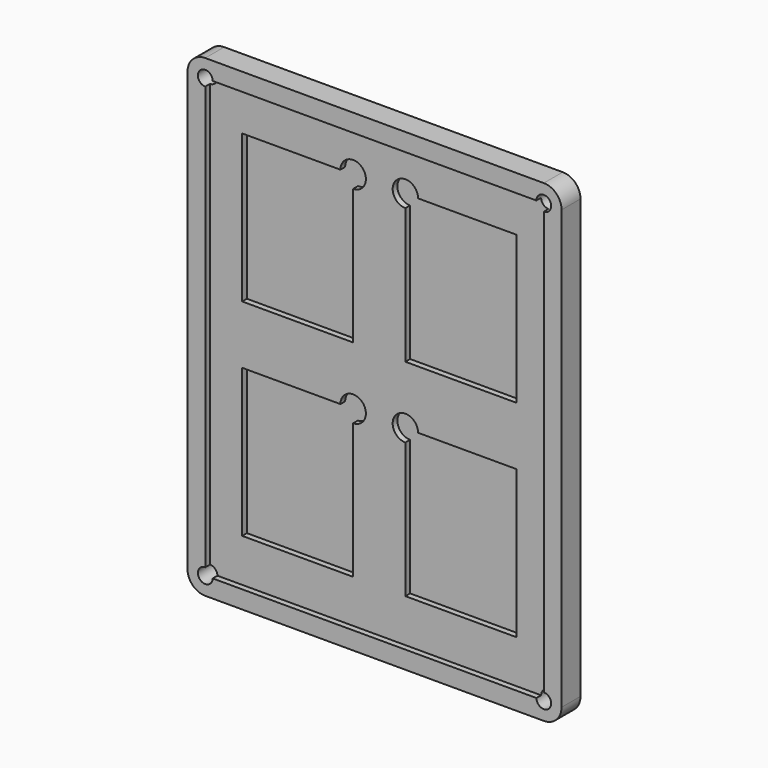
from build123d import *

# Parameters (mm, degrees)
F0_W      = 80.264
F0_H      = 101.6
F1_DEPTH  = 2.54
F2_R      = 3.81
F3_W      = 72.644
F3_H      = 93.98
F4_DEPTH  = 1.27
F5_W      = 23.8125
F5_H      = 31.75
F6_DEPTH  = 1.27
F7_W      = 23.8125
F7_H      = 31.75
F8_DEPTH  = 1.27
F9_R      = 2.7305
F10_DEPTH = 1.27
F12_D     = 3.175
F12_DEPTH = 9.525
F12_TIP   = 0.9538662327


with BuildPart() as f1:
    # F0 (on Front) → F1 (new body, symmetric)
    with BuildSketch(Plane.XZ):
        Rectangle(F0_W, F0_H)
    extrude(amount=F1_DEPTH, both=True)

    # F2
    f2_edges = [f1.edges().sort_by_distance(p)[0] for p in [
        (-40.132, 0, 50.8),
        (40.132, 0, 50.8),
        (40.132, 0, -50.8),
        (-40.132, 0, -50.8),
    ]]
    fillet(f2_edges, radius=F2_R)

    # F3 (on face) → F4 (cut)
    with BuildSketch(Plane.XZ.offset(2.54)):
        Rectangle(F3_W, F3_H)
    extrude(amount=-F4_DEPTH, mode=Mode.SUBTRACT)

    # F5 (on face) → F6 (cut, symmetric)
    with BuildSketch(Plane.XZ.offset(1.27)):
        with Locations((-17.5078902394, 22.415274836)):
            Rectangle(F5_W, F5_H)
        with Locations((17.5078902394, 22.415274836)):
            Rectangle(F5_W, F5_H)
    extrude(amount=F6_DEPTH, both=True, mode=Mode.SUBTRACT)

    # F7 (on face) → F8 (cut, symmetric)
    with BuildSketch(Plane.XZ.offset(1.27)):
        with Locations((-17.5078902394, -21.8638093457)):
            Rectangle(F7_W, F7_H)
        with Locations((17.5078902394, -21.8638093457)):
            Rectangle(F7_W, F7_H)
    extrude(amount=F8_DEPTH, both=True, mode=Mode.SUBTRACT)

    # F9 (on face) → F10 (cut)
    with BuildSketch(Plane.XZ.offset(1.27)):
        with Locations((-5.6016402394, 38.290274836)):
            Circle(F9_R)
        with Locations((-5.6016402394, -5.9888093457)):
            Circle(F9_R)
        with Locations((5.6016402394, 38.290274836)):
            Circle(F9_R)
        with Locations((5.6016402394, -5.9888093457)):
            Circle(F9_R)
    extrude(amount=-F10_DEPTH, mode=Mode.SUBTRACT)

    # F12
    with Locations(Plane(origin=(0, 2.54, 0), x_dir=(-1, 0, 0), z_dir=(0, 1, 0))):
        with Locations((-36.322, 46.99), (36.322, 46.99), (36.322, -46.99), (-36.322, -46.99)):
            Hole(F12_D / 2, depth=F12_DEPTH)
            with Locations((0, 0, -(F12_DEPTH + F12_TIP / 2))):  # 118° drill point
                Cone(0, F12_D / 2, F12_TIP, mode=Mode.SUBTRACT)


solid = f1.part
